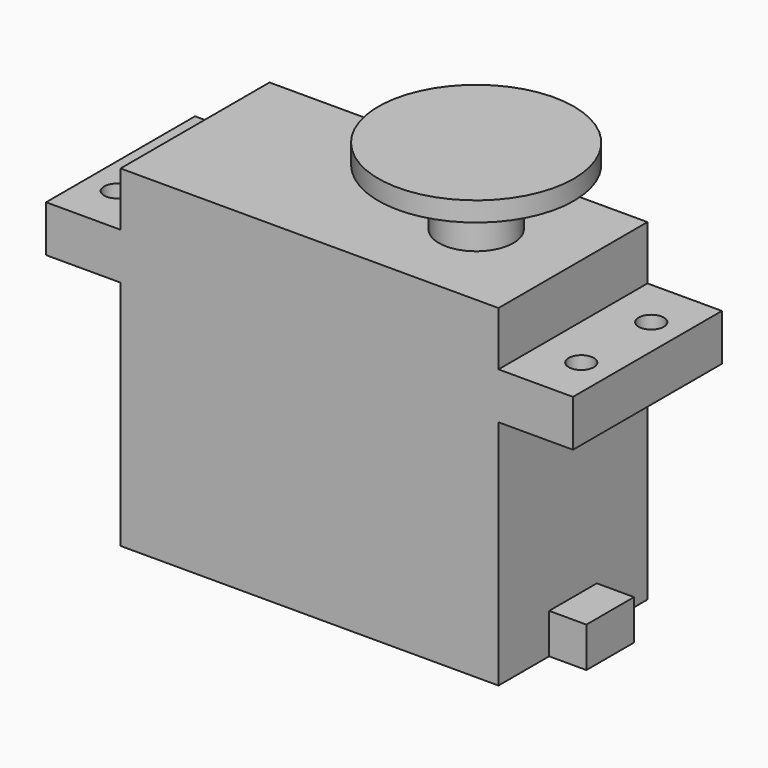
from build123d import *

# Parameters (mm, degrees)
F0_W      = 40.6
F0_H      = 20
F1_DEPTH  = 35.7
F2_W      = 8
F2_H      = 5
F3_DEPTH  = 20
F4_R      = 4
F5_DEPTH  = 6.1
F6_R      = 10.5
F7_DEPTH  = 2.1
F8_W      = 6.4
F8_H      = 4.3
F9_DEPTH  = 4
F10_R     = 1.35
F11_DEPTH = 5


with BuildPart() as f1:
    # F0 (on Top) → F1 (new body)
    with BuildSketch(Plane.XY):
        with Locations((20.3, 10)):
            Rectangle(F0_W, F0_H)
    extrude(amount=F1_DEPTH)

    # F2 (on face) → F3 (join, through all)
    with BuildSketch(Plane.XZ):
        with Locations((44.6, 27.4)):
            Rectangle(F2_W, F2_H)
        with Locations((-4, 27.4)):
            Rectangle(F2_W, F2_H)
    extrude(amount=-F3_DEPTH)

    # F4 (on face) → F5 (join)
    with BuildSketch(Plane.XY.offset(35.7)):
        with Locations((30.2, 10)):
            Circle(F4_R)
    extrude(amount=F5_DEPTH)

    # F6 (on face) → F7 (join)
    with BuildSketch(Plane.XY.offset(41.8)):
        with Locations((30.2, 10)):
            Circle(F6_R)
    extrude(amount=F7_DEPTH)

    # F8 (on face) → F9 (join)
    with BuildSketch(Plane.YZ.offset(40.6)):
        with Locations((10, 2.15)):
            Rectangle(F8_W, F8_H)
    extrude(amount=F9_DEPTH)

    # F10 (on face) → F11 (cut, through all)
    with BuildSketch(Plane.XY.offset(29.9)):
        with Locations((-4.65, 14.7)):
            Circle(F10_R)
        with Locations((-4.65, 5.3)):
            Circle(F10_R)
        with Locations((45.25, 14.7)):
            Circle(F10_R)
        with Locations((45.25, 5.3)):
            Circle(F10_R)
    extrude(amount=-F11_DEPTH, mode=Mode.SUBTRACT)


solid = f1.part
